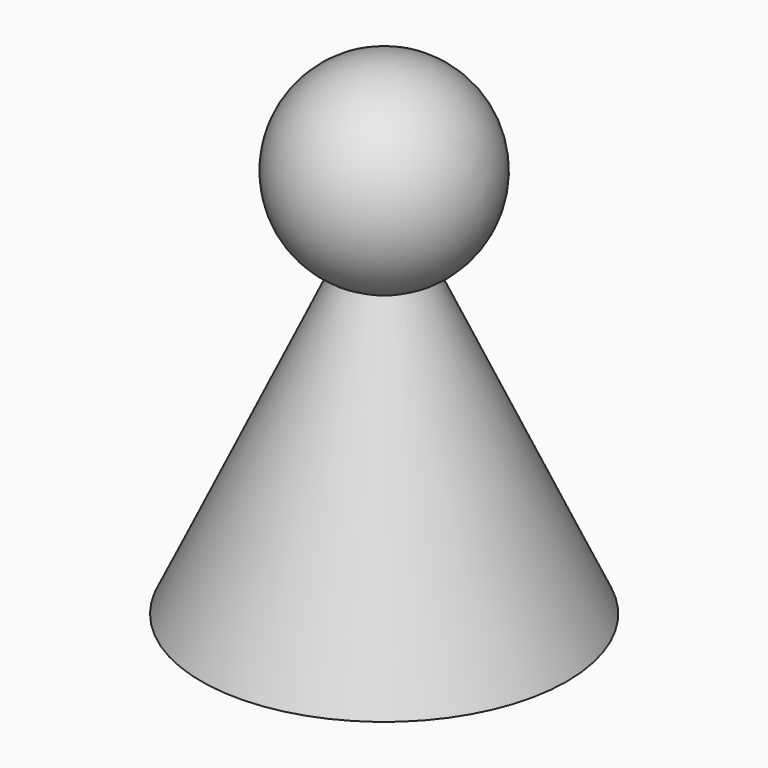
from build123d import *


with BuildPart() as part:
    # Sketch → Revolve (revolve)
    with BuildSketch(Plane.XZ):
        with BuildLine():
            Line((0, 40), (0, 0))
            Line((0, 0), (15, 0))
            Line((3.44501, 24.779757), (15, 0))
            ThreePointArc((3.44501, 24.779757), (7.802626, 33.766077), (0, 40))
        make_face()
    revolve(axis=Axis((0, 0, 0), (0, 0, 1)))


solid = part.part
